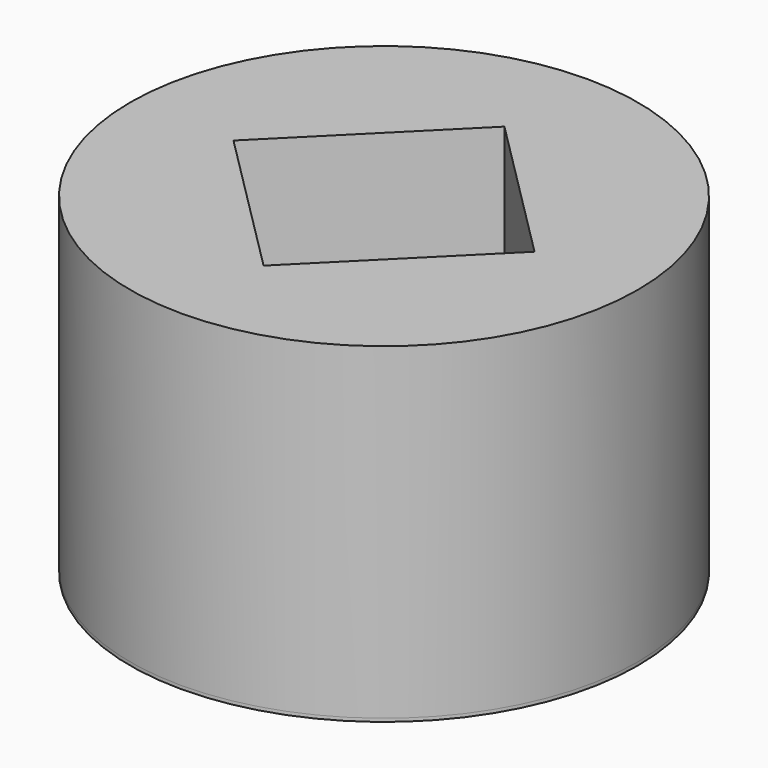
from build123d import *

# Parameters (mm, degrees)
F0_R     = 39.37
F1_DEPTH = 0.508
F2_R     = 39.37
F3_DEPTH = 50.8
F5_DEPTH = 33.02


with BuildPart() as f1:
    # F0 (on Top) → F1 (new body)
    with BuildSketch(Plane.XY):
        Circle(F0_R)
    extrude(amount=-F1_DEPTH)

    # F2 (on Top) → F3 (join)
    with BuildSketch(Plane.XY):
        Circle(F2_R)
    extrude(amount=F3_DEPTH)

    # F4 (on face) → F5 (cut)
    with BuildSketch(Plane.XY.offset(50.8)):
        Polygon((23.348666, 0), (0, 23.348666), (-23.348666, 0), (0, -23.348666), align=None)
    extrude(amount=-F5_DEPTH, mode=Mode.SUBTRACT)


solid = f1.part
